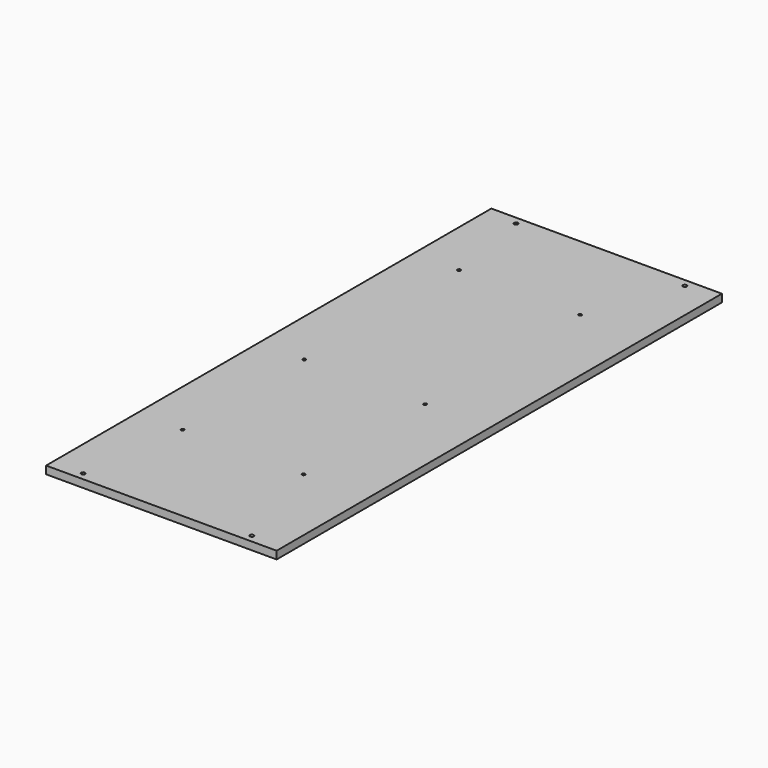
from build123d import *

# Parameters (mm, degrees)
F0_W     = 378.7648
F0_H     = 914.4
F1_DEPTH = 12.7
F3_DEPTH = 12.701
F5_D     = 5.08


with BuildPart() as f1:
    # F0 (on Top) → F1 (new body)
    with BuildSketch(Plane.XY):
        with Locations((-4.132511, 70.025934)):
            Rectangle(F0_W, F0_H)
    extrude(amount=F1_DEPTH)

    # F2 (on face) → F3 (cut, through all)
    with BuildSketch(Plane.XY.offset(12.7)):
        with BuildLine():
            ThreePointArc((-142.714911, 517.700934), (-144.959975, 512.28087), (-139.539911, 514.525934))
            ThreePointArc((-139.539911, 514.525934), (-140.469847, 516.770998), (-142.714911, 517.700934))
        make_face()
        with BuildLine():
            ThreePointArc((134.449889, 517.700934), (132.204825, 512.28087), (137.624889, 514.525934))
            ThreePointArc((137.624889, 514.525934), (136.694953, 516.770998), (134.449889, 517.700934))
        make_face()
        with BuildLine():
            ThreePointArc((-142.714911, -377.649066), (-140.469847, -376.71913), (-139.539911, -374.474066))
            ThreePointArc((-139.539911, -374.474066), (-144.959975, -372.229002), (-142.714911, -377.649066))
        make_face()
        with BuildLine():
            ThreePointArc((134.449889, -377.649066), (136.694953, -376.71913), (137.624889, -374.474066))
            ThreePointArc((137.624889, -374.474066), (132.204825, -372.229002), (134.449889, -377.649066))
        make_face()
    extrude(amount=-F3_DEPTH, mode=Mode.SUBTRACT)

    # F5 (through all)
    with Locations(Plane.XY.offset(12.7)):
        with Locations((-118.98496, 49.682964), (79.774782, 49.682964), (-118.98496, 367.765397), (79.774782, 367.765397), (-118.98496, -199.936926), (79.774782, -199.936926)):
            Hole(F5_D / 2)


solid = f1.part
